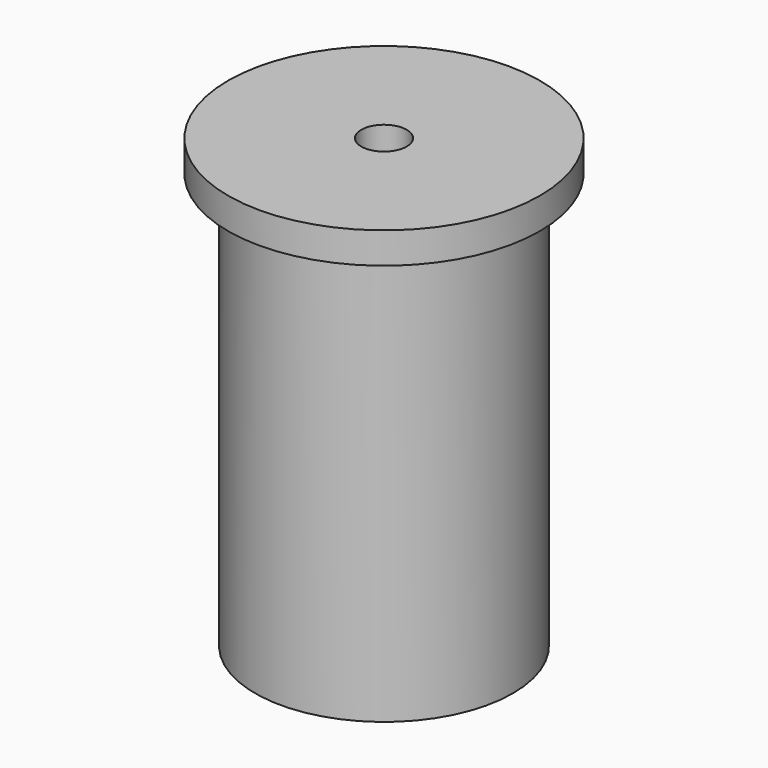
from build123d import *

# Parameters (mm, degrees)
F0_R     = 15.748
F0_R_2   = 12.7
F1_DEPTH = 50.8
F2_R     = 19.05
F3_DEPTH = 3.81
F4_D     = 5.55625


with BuildPart() as f1:
    # F0 (on Top) → F1 (new body)
    with BuildSketch(Plane.XY):
        Circle(F0_R)
        Circle(F0_R_2, mode=Mode.SUBTRACT)
    extrude(amount=F1_DEPTH)

    # F2 (on face) → F3 (join)
    with BuildSketch(Plane.XY.offset(50.8)):
        Circle(F2_R)
    extrude(amount=F3_DEPTH)

    # F4 (through all)
    with Locations(Plane(origin=(0, 0, 50.8), x_dir=(1, 0, 0), z_dir=(0, 0, -1))):
        with Locations((0, 0)):
            Hole(F4_D / 2)


solid = f1.part
